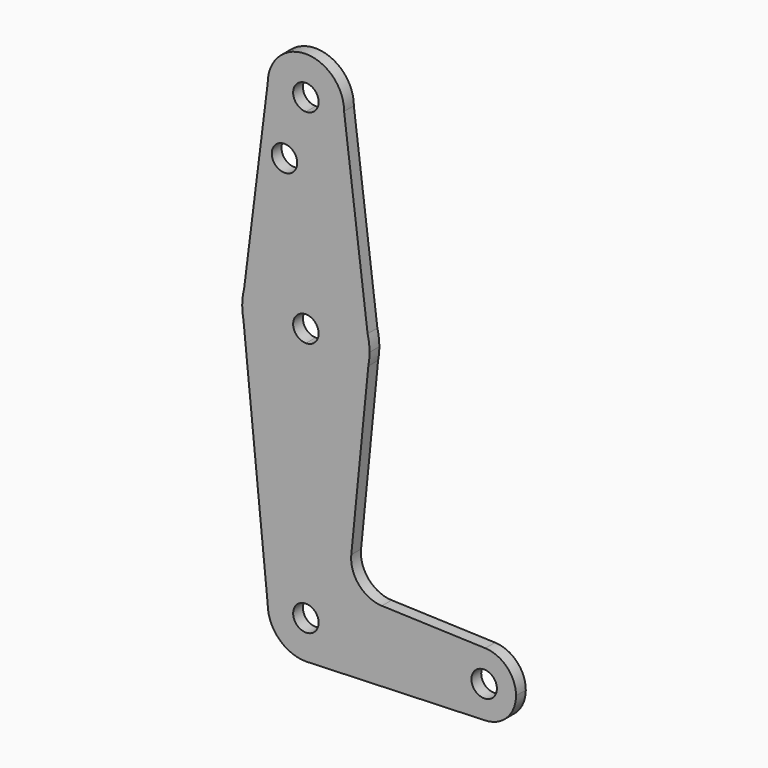
from build123d import *

# Parameters (mm, degrees)
F0_R     = 3.175
F1_DEPTH = 3.048


with BuildPart() as f1:
    # F0 (on Front) → F1 (new body)
    with BuildSketch(Plane.XZ):
        with BuildLine():
            ThreePointArc((3.175, 0), (-2.2450640303, -2.2450640303), (0, 3.175))
            Line((0, 3.175), (0, 9.525))
            ThreePointArc((0, 9.525), (-6.7351920908, 6.7351920908), (-9.525, 0))
            ThreePointArc((-9.525, 0), (-6.7351920908, -6.7351920908), (0, -9.525))
            Line((0, -9.525), (0.6773435479, -9.500885786))
            ThreePointArc((0.6773435479, -9.500885786), (6.9705567315, -6.4912990883), (9.525, 0))
            Line((9.525, 0), (3.175, 0))
        make_face()
        with BuildLine():
            ThreePointArc((-9.525, 0), (-6.7351920908, 6.7351920908), (0, 9.525))
            Line((0, 9.525), (0, 47.625))
            ThreePointArc((0, 47.625), (-10.0526499203, 51.2134278751), (-15.5606435644, 60.3564356436))
            Line((-15.5606435644, 60.3564356436), (-9.525, 0))
        make_face()
        with BuildLine():
            Line((0, 47.625), (0, 9.525))
            ThreePointArc((0, 9.525), (6.7351920908, 6.7351920908), (9.525, 0))
            Line((9.525, 0), (36.5125, 0))
            ThreePointArc((36.5125, 0), (38.9380895153, 5.7116327839), (44.7324052746, 7.9324746146))
            Line((44.7324052746, 7.9324746146), (18.9454118634, 8.8505214169))
            ThreePointArc((18.9454118634, 8.8505214169), (13.2415005535, 11.5645997894), (11.3169489983, 17.5809879879))
            Line((11.3169489983, 17.5809879879), (15.5652161214, 60.3791552277))
            ThreePointArc((15.5652161214, 60.3791552277), (10.0616155323, 51.22076884), (0, 47.625))
        make_face()
        with BuildLine():
            Line((36.5125, 0), (9.525, 0))
            ThreePointArc((9.525, 0), (6.9705567315, -6.4912990883), (0.6773435479, -9.500885786))
            Line((0.6773435479, -9.500885786), (44.7324052746, -7.9324746146))
            ThreePointArc((44.7324052746, -7.9324746146), (38.9380895153, -5.7116327839), (36.5125, 0))
        make_face()
        with BuildLine():
            ThreePointArc((-15.5606435644, 60.3564356436), (-10.0526499203, 51.2134278751), (0, 47.625))
            Line((0, 47.625), (0, 60.325))
            ThreePointArc((0, 60.325), (-3.175, 63.5), (0, 66.675))
            Line((0, 66.675), (0, 79.375))
            ThreePointArc((0, 79.375), (-9.7463072395, 76.0309664508), (-15.3865384615, 67.4076923077))
            Line((-15.3865384615, 67.4076923077), (-15.875, 63.5))
            Line((-15.875, 63.5), (-15.5606435644, 60.3564356436))
        make_face()
        with BuildLine():
            Line((0, 60.325), (0, 47.625))
            ThreePointArc((0, 47.625), (10.0616155323, 51.22076884), (15.5652161214, 60.3791552277))
            Line((15.5652161214, 60.3791552277), (15.875, 63.5))
            Line((15.875, 63.5), (15.3865384615, 67.4076923077))
            ThreePointArc((15.3865384615, 67.4076923077), (9.7463072395, 76.0309664508), (0, 79.375))
            Line((0, 79.375), (0, 66.675))
            ThreePointArc((0, 66.675), (2.2450640303, 65.7450640303), (3.175, 63.5))
            ThreePointArc((3.175, 63.5), (2.2450640303, 61.2549359697), (0, 60.325))
        make_face()
        with BuildLine():
            ThreePointArc((44.7324052746, 7.9324746146), (38.9380895153, 5.7116327839), (36.5125, 0))
            ThreePointArc((36.5125, 0), (38.9380895153, -5.7116327839), (44.7324052746, -7.9324746146))
            ThreePointArc((44.7324052746, -7.9324746146), (50.1616327839, -5.5119104847), (52.3875, 0))
            ThreePointArc((52.3875, 0), (50.1616327839, 5.5119104847), (44.7324052746, 7.9324746146))
        make_face()
        with BuildLine():
            ThreePointArc((47.625, 0), (44.45, -3.175), (41.275, 0))
            ThreePointArc((41.275, 0), (44.45, 3.175), (47.625, 0))
        make_face(mode=Mode.SUBTRACT)
        with BuildLine():
            ThreePointArc((0, -9.525), (0.3388863295, -9.5189695375), (0.6773435479, -9.500885786))
            Line((0.6773435479, -9.500885786), (0, -9.525))
        make_face()
        with BuildLine():
            ThreePointArc((-15.875, 63.5), (-15.7962153946, 61.9203784605), (-15.5606435644, 60.3564356436))
            Line((-15.5606435644, 60.3564356436), (-15.875, 63.5))
        make_face()
        with BuildLine():
            Line((15.875, 63.5), (15.5652161214, 60.3791552277))
            ThreePointArc((15.5652161214, 60.3791552277), (15.7973641936, 61.9319089516), (15.875, 63.5))
        make_face()
        with BuildLine():
            ThreePointArc((-15.3865384615, 67.4076923077), (-15.7524112928, 65.4690514116), (-15.875, 63.5))
            Line((-15.875, 63.5), (-15.3865384615, 67.4076923077))
        make_face()
        with BuildLine():
            Line((15.3865384615, 67.4076923077), (15.875, 63.5))
            ThreePointArc((15.875, 63.5), (15.7524112928, 65.4690514116), (15.3865384615, 67.4076923077))
        make_face()
        with BuildLine():
            ThreePointArc((-15.3865384615, 67.4076923077), (-9.7463072395, 76.0309664508), (0, 79.375))
            Line((0, 79.375), (0, 104.775))
            ThreePointArc((0, 104.775), (-6.7351920908, 107.5648079092), (-9.525, 114.3))
            Line((-9.525, 114.3), (-15.3865384615, 67.4076923077))
        make_face()
        with Locations((-5.339870695, 99.1903096437)):
            Circle(F0_R, mode=Mode.SUBTRACT)
        with BuildLine():
            Line((0, 104.775), (0, 79.375))
            ThreePointArc((0, 79.375), (9.7463072395, 76.0309664508), (15.3865384615, 67.4076923077))
            Line((15.3865384615, 67.4076923077), (9.525, 114.3))
            ThreePointArc((9.525, 114.3), (6.7351920908, 107.5648079092), (0, 104.775))
        make_face()
        with BuildLine():
            ThreePointArc((-9.525, 114.3), (-6.7351920908, 107.5648079092), (0, 104.775))
            ThreePointArc((0, 104.775), (6.7351920908, 107.5648079092), (9.525, 114.3))
            ThreePointArc((9.525, 114.3), (0, 123.825), (-9.525, 114.3))
        make_face()
        with BuildLine():
            ThreePointArc((3.175, 114.3), (2.2450640303, 112.0549359697), (0, 111.125))
            ThreePointArc((0, 111.125), (-2.2450640303, 116.5450640303), (3.175, 114.3))
        make_face(mode=Mode.SUBTRACT)
        with BuildLine():
            Line((0, 9.525), (0, 3.175))
            ThreePointArc((0, 3.175), (2.2450640303, 2.2450640303), (3.175, 0))
            Line((3.175, 0), (9.525, 0))
            ThreePointArc((9.525, 0), (6.7351920908, 6.7351920908), (0, 9.525))
        make_face()
    extrude(amount=F1_DEPTH)


solid = f1.part
